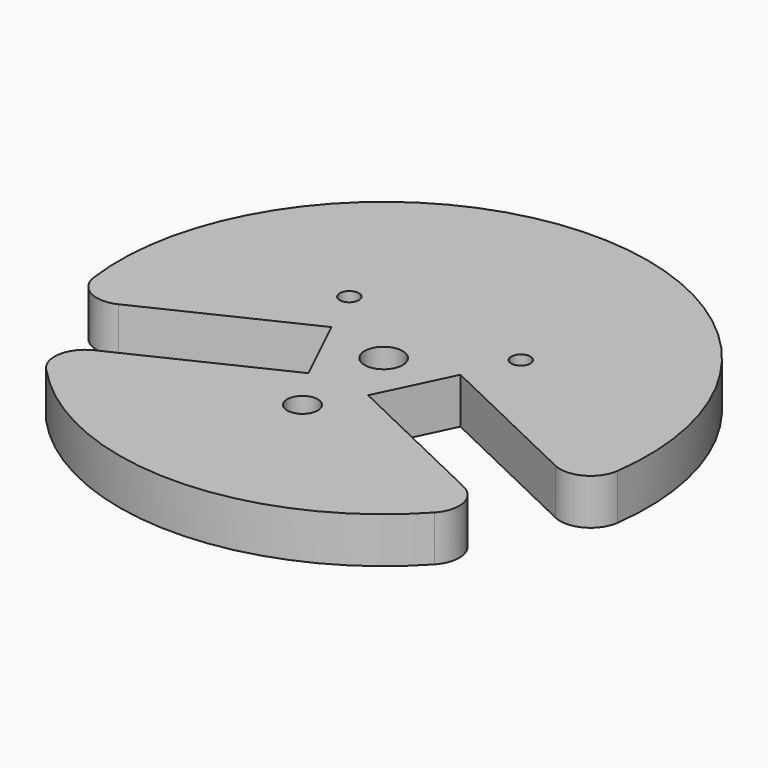
from build123d import *

# Parameters (mm, degrees)
SKETCH_R        = 69.345339
PAD_DEPTH       = 12
SKETCH001_R     = 5
POCKET_DEPTH    = 12.001
SKETCH006_R     = 4
SKETCH006_R_2   = 2.5
POCKET001_DEPTH = 12.001
POCKET002_DEPTH = 405.010966


with BuildPart() as part:
    # Sketch → Pad (new body)
    with BuildSketch(Plane.XY):
        Circle(SKETCH_R)
    extrude(amount=PAD_DEPTH)

    # Sketch001 → Pocket (cut, through all)
    with BuildSketch(Plane(origin=(0, 0, 0), x_dir=(-1, 0, 0), z_dir=(0, 0, -1))):
        Circle(SKETCH001_R)
    extrude(amount=-POCKET_DEPTH, mode=Mode.SUBTRACT)

    # Sketch006 → Pocket001 (cut, through all)
    with BuildSketch(Plane(origin=(0, 0, 0), x_dir=(-1, 0, 0), z_dir=(0, 0, -1))):
        with Locations((0, -26.625)):
            Circle(SKETCH006_R)
        with Locations((-22.5, 16.875)):
            Circle(SKETCH006_R_2)
        with Locations((22.5, 16.875)):
            Circle(SKETCH006_R_2)
    extrude(amount=-POCKET001_DEPTH, mode=Mode.SUBTRACT)

    # Sketch007 → Pocket002 (cut, through all)
    with BuildSketch(Plane.XY.offset(12)):
        with BuildLine():
            Line((7.84131, -14.884662), (16.91337, 4.054655))
            Line((16.91337, 4.054655), (57.3521, -15.315769))
            ThreePointArc((57.3521, -15.315769), (64.614164, -15.137413), (68.738065, -9.157209))
            ThreePointArc((50.968353, -47.021304), (62.776023, -29.460941), (68.738065, -9.157209))
            ThreePointArc((50.968353, -47.021304), (52.945237, -40.089985), (48.54443, -34.381731))
            Line((7.84131, -14.884662), (48.54443, -34.381731))
        make_face()
    pocket002 = extrude(amount=-POCKET002_DEPTH, mode=Mode.SUBTRACT)

    # Mirrored: Pocket002 across Sketch007 V_Axis
    add(pocket002.mirror(Plane(origin=(0, 0, 12), x_dir=(0, 0, 1), z_dir=(1, 0, 0))), mode=Mode.SUBTRACT)


solid = part.part
